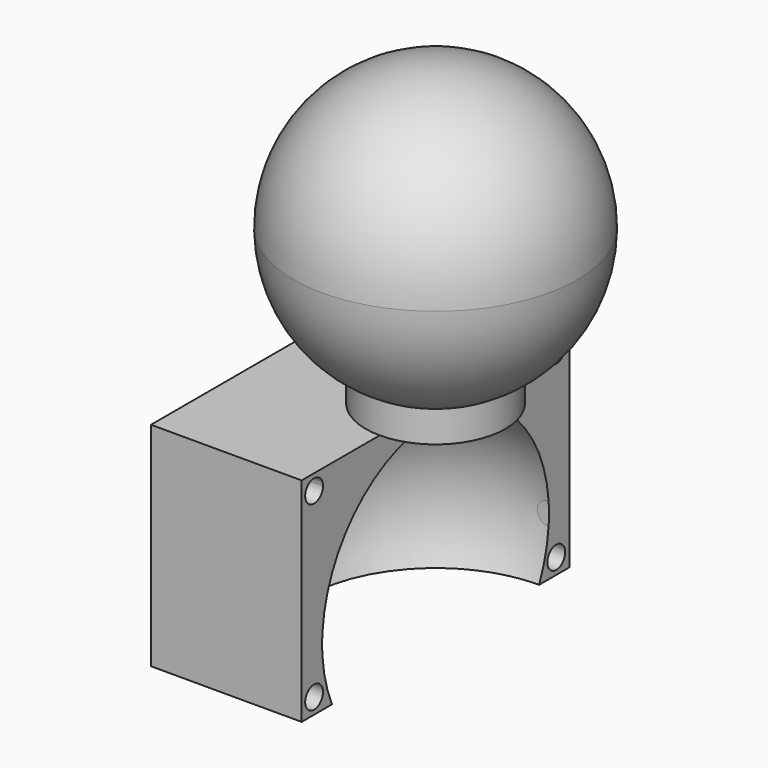
from build123d import *

# Parameters (mm, degrees)
F2_R     = 6.2596868845
F3_DEPTH = 3.048
F4_R     = 1
F5_DEPTH = 13.5


with BuildPart() as f1:
    # F0 (on Right) → F1 (revolve)
    with BuildSketch(Plane.YZ):
        with BuildLine():
            ThreePointArc((0, 1.1509964916), (8.9802561211, 4.8707403706), (12.7, 13.8509964916))
            ThreePointArc((12.7, 13.8509964916), (8.9802561211, 22.8312526127), (0, 26.5509964916))
            Line((0, 26.5509964916), (0, 1.1509964916))
        make_face()
    revolve(axis=Axis((0, 0, 13.8509964916), (0, 0, -1)))

    # F2 (on Top) → F3 (join)
    with BuildSketch(Plane.XY):
        Circle(F2_R)
    extrude(amount=F3_DEPTH)

    # F4 (on Right) → F5 (join)
    with BuildSketch(Plane.YZ):
        with BuildLine():
            Line((-13.603, 0), (-15, 0))
            Line((-15, 0), (-15, -1.397))
            Line((-15, -1.397), (-14.603, -1.397))
            ThreePointArc((-14.603, -1.397), (-14.3101067812, -0.6898932188), (-13.603, -0.397))
            Line((-13.603, -0.397), (-13.603, 0))
        make_face()
        with BuildLine():
            Line((15, 0), (-13.603, 0))
            Line((-13.603, 0), (-13.603, -0.397))
            ThreePointArc((-13.603, -0.397), (-12.8958932188, -0.6898932188), (-12.603, -1.397))
            ThreePointArc((-12.603, -1.397), (-13.603, -2.397), (-14.603, -1.397))
            Line((-14.603, -1.397), (-15, -1.397))
            Line((-15, -1.397), (-15, -12.8640756011))
            Line((-15, -12.8640756011), (-12.6600748075, -12.8640756011))
            ThreePointArc((-12.6600748075, -12.8640756011), (0, -1.170309107), (12.6600748075, -12.8640756011))
            Line((12.6600748075, -12.8640756011), (15, -12.8640756011))
            Line((15, -12.8640756011), (15, 0))
        make_face()
        with Locations((13.5173769371, -1.397)):
            Circle(F4_R, mode=Mode.SUBTRACT)
        with BuildLine():
            Line((-12.6600748075, -12.8640756011), (-15, -12.8640756011))
            Line((-15, -12.8640756011), (-15, -19.05))
            Line((-15, -19.05), (-11.5957234467, -19.05))
            ThreePointArc((-11.5957234467, -19.05), (-12.4208632505, -16.518356711), (-12.7, -13.870309107))
            ThreePointArc((-12.7, -13.870309107), (-12.6900147765, -13.3667964733), (-12.6600748075, -12.8640756011))
        make_face()
        with Locations((-13.603, -17.6556983136)):
            Circle(F4_R, mode=Mode.SUBTRACT)
        with BuildLine():
            Line((15, -19.05), (15, -12.8640756011))
            Line((15, -12.8640756011), (12.6600748075, -12.8640756011))
            ThreePointArc((12.6600748075, -12.8640756011), (12.6900147765, -13.3667964733), (12.7, -13.870309107))
            ThreePointArc((12.7, -13.870309107), (12.4208632505, -16.518356711), (11.5957234467, -19.05))
            Line((11.5957234467, -19.05), (15, -19.05))
        make_face()
        with Locations((13.5173769371, -17.6556983136)):
            Circle(F4_R, mode=Mode.SUBTRACT)
        with BuildLine():
            ThreePointArc((-12.7, -13.870309107), (-12.4208632505, -16.518356711), (-11.5957234467, -19.05))
            Line((-11.5957234467, -19.05), (0, -19.05))
            Line((0, -19.05), (0, -13.870309107))
            Line((0, -13.870309107), (-12.7, -13.870309107))
        make_face()
        with BuildLine():
            Line((0, -19.05), (11.5957234467, -19.05))
            ThreePointArc((11.5957234467, -19.05), (12.4208632505, -16.518356711), (12.7, -13.870309107))
            Line((12.7, -13.870309107), (0, -13.870309107))
            Line((0, -13.870309107), (0, -19.05))
        make_face()
        with BuildLine():
            ThreePointArc((12.6600748075, -12.8640756011), (0, -1.170309107), (-12.6600748075, -12.8640756011))
            ThreePointArc((-12.6600748075, -12.8640756011), (-12.6900147765, -13.3667964733), (-12.7, -13.870309107))
            Line((-12.7, -13.870309107), (0, -13.870309107))
            Line((0, -13.870309107), (12.7, -13.870309107))
            ThreePointArc((12.7, -13.870309107), (12.6900147765, -13.3667964733), (12.6600748075, -12.8640756011))
        make_face()
    extrude(amount=-F5_DEPTH)

    # F4 (on Right) → F6 (revolve, cut)
    with BuildSketch(Plane.YZ):
        with BuildLine():
            ThreePointArc((12.6600748075, -12.8640756011), (0, -1.170309107), (-12.6600748075, -12.8640756011))
            ThreePointArc((-12.6600748075, -12.8640756011), (-12.6900147765, -13.3667964733), (-12.7, -13.870309107))
            Line((-12.7, -13.870309107), (0, -13.870309107))
            Line((0, -13.870309107), (12.7, -13.870309107))
            ThreePointArc((12.7, -13.870309107), (12.6900147765, -13.3667964733), (12.6600748075, -12.8640756011))
        make_face()
    revolve(axis=Axis((0, 0, -13.870309107), (0, 1, 0)), mode=Mode.SUBTRACT)


solid = f1.part
